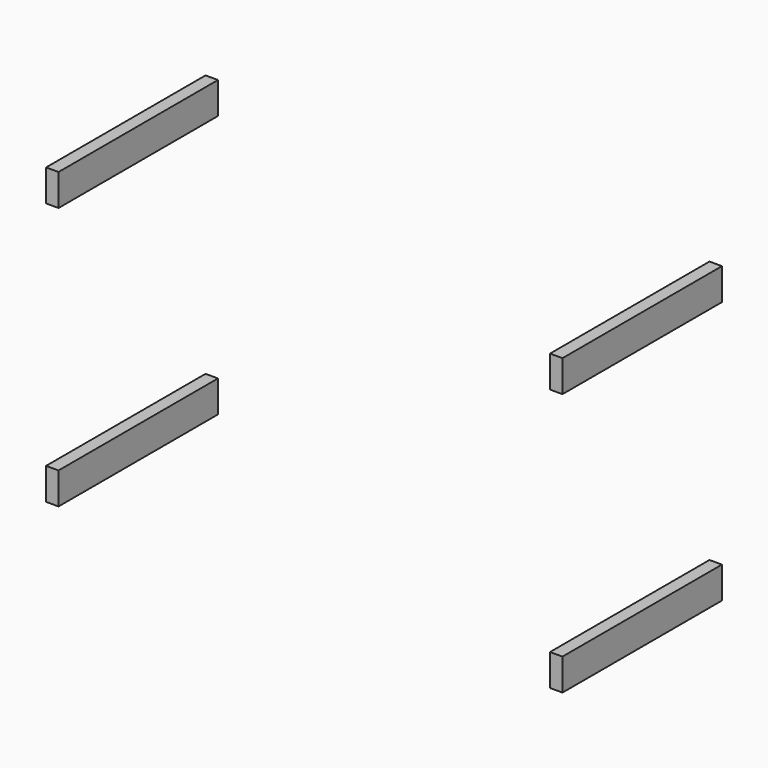
from build123d import *

# Parameters (mm, degrees)
SKETCH002_W      = 27.5
SKETCH002_H      = 70
EXTRUDE002_DEPTH = 440
ARRAY001_X_COUNT = 2
ARRAY001_X_PITCH = 1112.5
ARRAY001_Z_COUNT = 2
ARRAY001_Z_PITCH = 580


with BuildPart() as part:
    # Sketch002 (on Face3 of Extrude) → Extrude002 (new body)
    with BuildSketch(Plane(origin=(0, 80, 0), x_dir=(-1, 0, 0), z_dir=(0, 1, 0))):
        with Locations((-13.75, 85)):
            Rectangle(SKETCH002_W, SKETCH002_H)
    extrude(amount=EXTRUDE002_DEPTH)

    # Array001 X: part ×2


with BuildPart() as part_1:
    add(part.part)
    with Locations(*[(i * ARRAY001_X_PITCH, 0, 0) for i in range(1, ARRAY001_X_COUNT)]):
        add(part.part)

    # Array001 Z: part ×2


with BuildPart() as part_2:
    add(part_1.part)
    with Locations(*[(0, 0, i * ARRAY001_Z_PITCH) for i in range(1, ARRAY001_Z_COUNT)]):
        add(part_1.part)


solid = part_2.part
